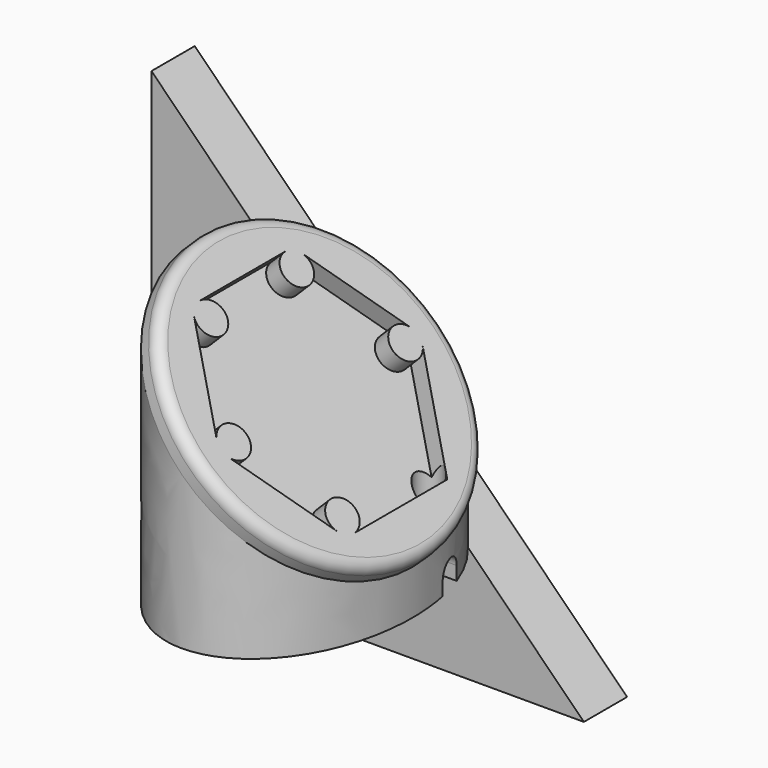
from build123d import *

# Parameters (mm, degrees)
F1_START  = -25
F1_DEPTH  = 5
F4_R      = 12.6624754376
F5_DEPTH  = 2
F4_R_2    = 14.1624754376
F6_DEPTH  = 2
F7_START  = 0.25
F7_DEPTH  = 1.75
F8_R      = 1
F9_R      = 1.25
F11_DEPTH = 25
F13_DEPTH = 25.1575181441


with BuildPart() as f1:
    # F0 (on Front) → F1 (new body)
    with BuildSketch(Plane.XZ.offset(F1_START)):
        Polygon((-20, 20), (-20, -20), (20, -20), align=None)
    extrude(amount=-F1_DEPTH)


with BuildPart() as f5:
    # F4 (on offset) → F5 (new body)
    with BuildSketch(Plane(origin=(14.1421356237, 0, 14.1421356237), x_dir=(0, 1, 0), z_dir=(0.7071067812, 0, 0.7071067812))):
        Circle(F4_R)
    extrude(amount=F5_DEPTH)

    # F4 (on offset) → F6 (join)
    with BuildSketch(Plane(origin=(14.1421356237, 0, 14.1421356237), x_dir=(0, 1, 0), z_dir=(0.7071067812, 0, 0.7071067812))):
        Circle(F4_R_2)
        Circle(F4_R, mode=Mode.SUBTRACT)
    extrude(amount=F6_DEPTH)

    # F3 (on offset) → F7 (cut)
    with BuildSketch(Plane(origin=(14.1421356237, 0, 14.1421356237), x_dir=(0, 1, 0), z_dir=(0.7071067812, 0, 0.7071067812)).offset(F7_START)):
        with BuildLine():
            Line((-4.9652123086, -10.1), (4.965212315, -10.1))
            ThreePointArc((4.965212315, -10.1), (3.9045521433, -7.5393398282), (6.465212315, -8.6))
            ThreePointArc((6.465212315, -8.6), (6.4141010435, -8.9882286085), (6.2642503784, -9.3500000732))
            Line((6.2642503784, -9.3500000732), (11.2294627171, -0.7500000322))
            ThreePointArc((11.2294627171, -0.7500000322), (8.4304246301, 1.2e-08), (11.2294627291, 0.7500000115))
            Line((11.2294627291, 0.7500000115), (6.2642503641, 9.3500000981))
            ThreePointArc((6.2642503641, 9.3500000981), (6.4141010398, 8.9882286224), (6.465212315, 8.6))
            ThreePointArc((6.465212315, 8.6), (3.9045521433, 7.5393398282), (4.965212315, 10.1))
            Line((4.965212315, 10.1), (-4.965212315, 10.1))
            ThreePointArc((-4.965212315, 10.1), (-3.9045521433, 9.6606601718), (-3.465212315, 8.6))
            ThreePointArc((-3.465212315, 8.6), (-5.3534408819, 7.1511112604), (-6.2642504215, 9.3499999986))
            Line((-6.2642504215, 9.3499999986), (-11.2294627343, 0.7500000025))
            ThreePointArc((-11.2294627343, 0.7500000025), (-9.542196061, 1.4488887391), (-8.4304246301, 0))
            ThreePointArc((-8.4304246301, 0), (-9.5421960871, -1.448888746), (-11.2294627613, -0.7499999558))
            Line((-11.2294627613, -0.7499999558), (-6.2642504402, -9.3499999663))
            ThreePointArc((-6.2642504402, -9.3499999663), (-5.3534408639, -7.1511112555), (-3.465212315, -8.6))
            ThreePointArc((-3.465212315, -8.6), (-3.904552141, -9.6606601695), (-4.9652123086, -10.1))
        make_face()
        with BuildLine():
            ThreePointArc((6.465212315, -8.6), (3.9045521433, -7.5393398282), (4.965212315, -10.1))
            ThreePointArc((4.965212315, -10.1), (5.7152122784, -9.8990381268), (6.2642503784, -9.3500000732))
            ThreePointArc((6.2642503784, -9.3500000732), (6.4141010435, -8.9882286085), (6.465212315, -8.6))
        make_face()
        with BuildLine():
            Line((4.965212315, -10.1), (5.8312377188, -10.1))
            Line((5.8312377188, -10.1), (6.2642503784, -9.3500000732))
            ThreePointArc((6.2642503784, -9.3500000732), (5.7152122784, -9.8990381268), (4.965212315, -10.1))
        make_face()
    extrude(amount=F7_DEPTH, mode=Mode.SUBTRACT)

    # F8
    f8_edges = [f5.edges().sort_by_distance(p)[0] for p in [
        (15.556349, -14.162475, 15.556349),
    ]]
    fillet(f8_edges, radius=F8_R)

    # F9 (on Top) → F10 (join, up to the next surface of F5)
    with BuildSketch(Plane.XY):
        with BuildLine():
            add(Edge.make_bspline(
                [(14.1421356237, -14.1624754376), (31.4875547822, -14.1624754376), (22.814845203, 7.0812377188), (14.1421356237, 28.3249508753), (5.4694260445, 7.0812377188), (-3.2032835347, -14.1624754376), (14.1421356237, -14.1624754376)],
                knots=[0, 0, 0, 2.0943951024, 2.0943951024, 4.1887902048, 4.1887902048, 6.2831853072, 6.2831853072, 6.2831853072], degree=2, weights=[1, 0.5, 1, 0.5, 1, 0.5, 1]))
        make_face()
        with Locations((21.4481276761, 5.2381153841)):
            Circle(F9_R, mode=Mode.SUBTRACT)
    extrude(until=Until.NEXT)

    # F9 (on Top) → F11 (cut)
    with BuildSketch(Plane.XY):
        with Locations((21.4481276761, 5.2381153841)):
            Circle(F9_R)
    extrude(amount=F11_DEPTH, mode=Mode.SUBTRACT)

    # F12 (on Right) → F13 (cut, through all)
    with BuildSketch(Plane.YZ):
        with BuildLine():
            Line((3.9881153841, 0), (6.4881153841, 0))
            Line((6.4881153841, 0), (6.4881153841, 1.25))
            ThreePointArc((6.4881153841, 1.25), (5.2381153841, 2.5), (3.9881153841, 1.25))
            Line((3.9881153841, 1.25), (3.9881153841, 0))
        make_face()
    extrude(amount=F13_DEPTH, mode=Mode.SUBTRACT)


solid = Compound([f1.part, f5.part])
